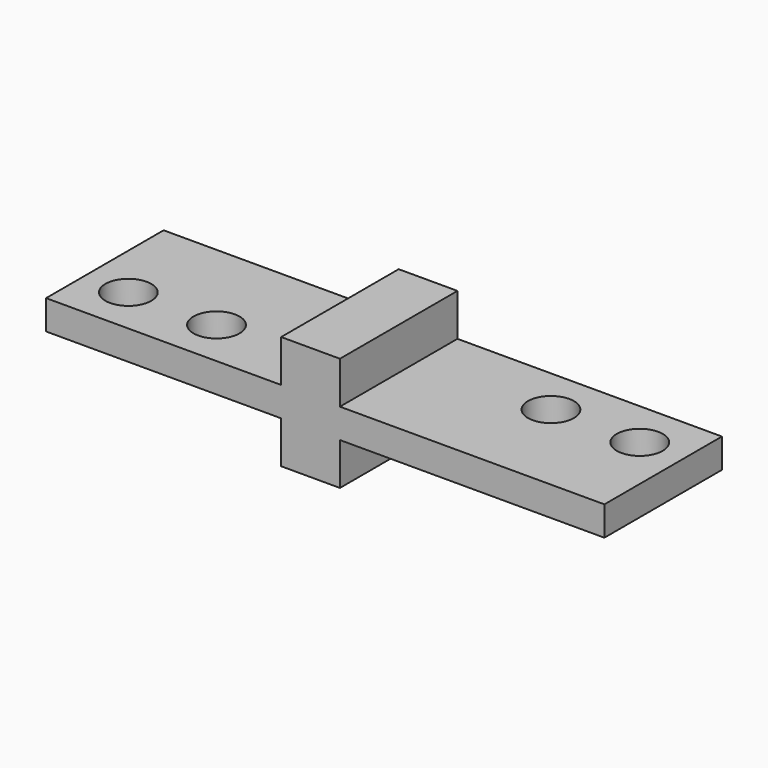
from build123d import *

# Parameters (mm, degrees)
F1_DEPTH  = 31.75
F1_FACE_W = 57.15
F1_FACE_H = 31.75
F2_R      = 4.95974
F2_R_2    = 4.967912
F2_R_3    = 4.9657
F3_DEPTH  = 25.4


with BuildPart() as f1:
    # F0 (on Front) → F1 (new body)
    with BuildSketch(Plane.XZ):
        Polygon((0, 6.35), (0, 0), (50.8, 0), (50.8, -9.1186), (63.5, -9.1186), (63.5, 0), (120.65, 0), (120.65, 6.35), (63.5, 6.35), (63.5, 15.4686), (50.8, 15.4686), (50.8, 6.35), align=None)
    extrude(amount=F1_DEPTH)

    # F1_face (on face) + F2 (on Top) → F3 (cut)
    with BuildSketch(Plane(origin=(92.075, -15.875, 6.35), x_dir=(1, 0, 0), z_dir=(0, 0, 1))):
        Rectangle(F1_FACE_W, F1_FACE_H)
    with BuildSketch(Plane.XY):
        with Locations((9.525, -21.433146)):
            Circle(F2_R)
        with Locations((28.575, -21.433146)):
            Circle(F2_R_2)
        with Locations((91.967098, -10.32926)):
            Circle(F2_R_3)
        with Locations((111.156374, -10.32926)):
            Circle(F2_R_3)
    extrude(amount=F3_DEPTH, mode=Mode.SUBTRACT)


solid = f1.part
